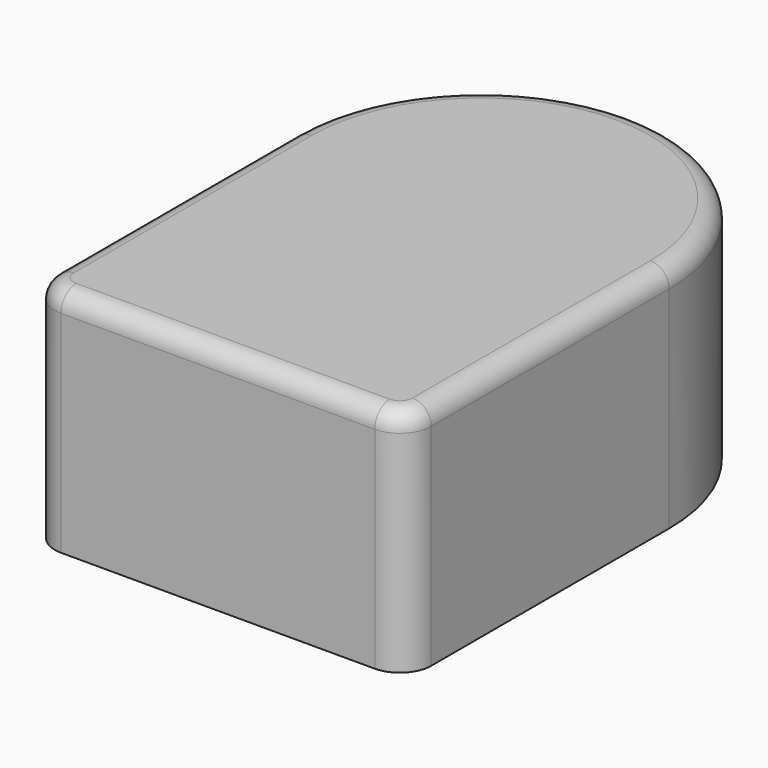
from build123d import *

# Parameters (mm, degrees)
F1_DEPTH = 18.3
F2_R     = 1.5


with BuildPart() as f1:
    # F0 (on Top) → F1 (new body)
    with BuildSketch(Plane.XY):
        with BuildLine():
            ThreePointArc((-11.902175, 2.5), (-11.169942, 0.732233), (-9.402175, 0))
            Line((-9.402175, 0), (15.597825, 0))
            ThreePointArc((15.597825, 0), (17.365592, 0.732233), (18.097825, 2.5))
            Line((18.097825, 2.5), (18.097825, 26.2))
            ThreePointArc((18.097825, 26.2), (3.097825, 41.2), (-11.902175, 26.2))
            Line((-11.902175, 26.2), (-11.902175, 2.5))
        make_face()
    extrude(amount=F1_DEPTH)

    # F2
    f2_edges = [f1.edges().sort_by_distance(p)[0] for p in [
        (-11.902175, 14.35, 18.3),
        (-11.169942, 0.732233, 18.3),
        (3.097825, 0, 18.3),
        (17.365592, 0.732233, 18.3),
        (18.097825, 14.35, 18.3),
        (3.097825, 41.2, 18.3),
    ]]
    fillet(f2_edges, radius=F2_R)


solid = f1.part
